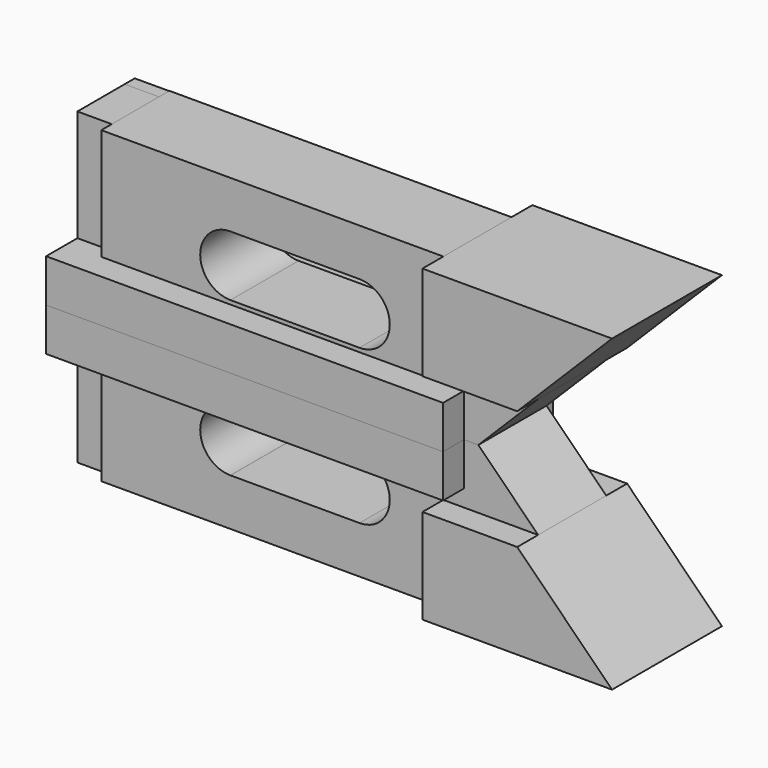
from build123d import *

# Parameters (mm, degrees)
F1_DEPTH = 12.7
F2_DEPTH = 7.874
F0_W     = 6.35
F0_H     = 28.575
F3_DEPTH = 5.461
F4_DEPTH = 2.3368


with BuildPart() as f1:
    # F0 (on Front) → F1 (new body, symmetric)
    with BuildSketch(Plane.XZ):
        Polygon((-7.2555875471, 0), (-13.6055875471, 0), (-13.6055875471, -7.9502), (59.8004124529, -7.9502), (59.8004124529, 0), align=None)
    extrude(amount=F1_DEPTH, both=True)


with BuildPart() as f1b:
    # F0 (on Front) → F1, piece 2 (new body, symmetric)
    with BuildSketch(Plane.XZ):
        Polygon((91.0424124529, 28.575), (55.9904124529, 28.575), (55.9904124529, 11.049), (73.5164124529, 11.049), align=None)
    extrude(amount=F1_DEPTH, both=True)


with BuildPart() as f2:
    # F0 (on Front) → F2 (new body, symmetric)
    with BuildSketch(Plane.XZ):
        Polygon((-7.2555875471, 28.575), (-7.2555875471, 0), (59.8004124529, 0), (62.4674124529, 0), (73.5164124529, 11.049), (55.9904124529, 11.049), (55.9904124529, 28.575), align=None)
        with BuildLine():
            ThreePointArc((16.5966869565, 19.852683718), (16.6204376899, 19.852734192), (16.6441884234, 19.852683718))
            Line((16.6441884234, 19.852683718), (40.4845493284, 19.852683718))
            ThreePointArc((40.4845493284, 19.852683718), (46.0844124529, 14.264683718), (40.4845493284, 8.676683718))
            Line((40.4845493284, 8.676683718), (16.6204376899, 8.676683718))
            ThreePointArc((16.6204376899, 8.676683718), (11.0324250715, 14.2528335615), (16.5966869565, 19.852683718))
        make_face(mode=Mode.SUBTRACT)
    extrude(amount=F2_DEPTH, both=True)


with BuildPart() as f3:
    # F0 (on Front) → F3 (new body, symmetric)
    with BuildSketch(Plane.XZ):
        with Locations((-10.4305875471, 14.2875)):
            Rectangle(F0_W, F0_H)
    extrude(amount=F3_DEPTH, both=True)


with BuildPart() as f4:
    # F4 (new): a face of the model
    f4_faces = [f3.part.faces().sort_by_distance(p)[0] for p in [
        (-10.4305875471, 5.461, 14.2875),
    ]]
    extrude(f4_faces, amount=F4_DEPTH)


with BuildPart() as f5_1:
    # F5: instance of F1b
    add(f1b.part.mirror(Plane.XY))


with BuildPart() as f5_2:
    # F5: instance of F1
    add(f1.part.mirror(Plane.XY))


with BuildPart() as f5_3:
    # F5: instance of F2
    add(f2.part.mirror(Plane.XY))


with BuildPart() as f5_4:
    # F5: instance of F3
    add(f3.part.mirror(Plane.XY))


with BuildPart() as f5_5:
    # F5: instance of F4
    add(f4.part.mirror(Plane.XY))


solid = Compound([f1.part, f1b.part, f2.part, f3.part, f4.part, f5_1.part, f5_2.part, f5_3.part, f5_4.part, f5_5.part])
